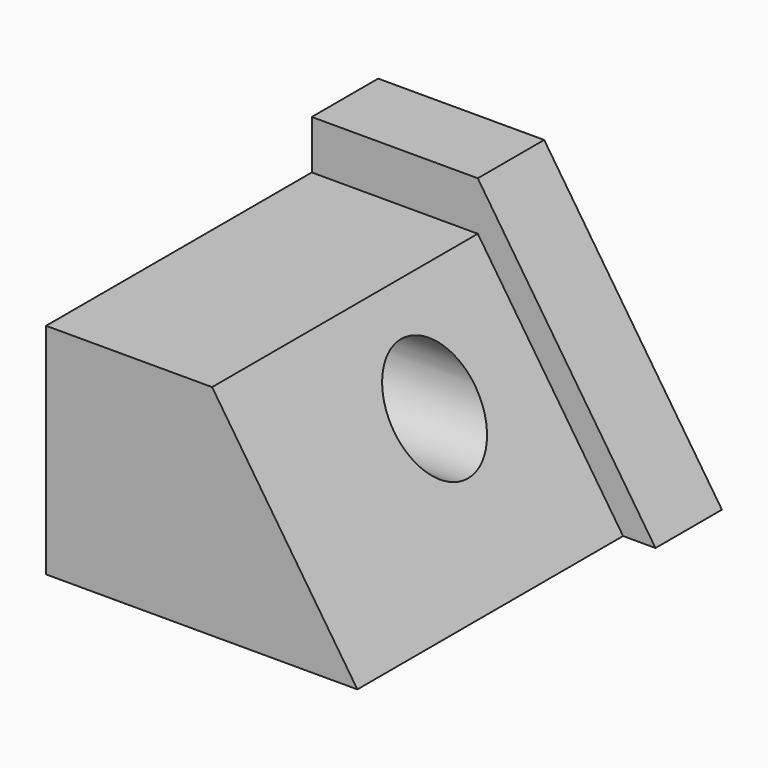
from build123d import *

# Parameters (mm, degrees)
F1_DEPTH = 63.5
F2_R     = 7.718493
F3_DEPTH = 52.580988
F5_DEPTH = 50.8


with BuildPart() as f1:
    # F0 (on Front) → F1 (new body)
    with BuildSketch(Plane.XZ):
        Polygon((-52.579988, 0), (0, 0), (-27.184211, 40.955156), (-52.579988, 40.955156), align=None)
    extrude(amount=F1_DEPTH)

    # F2 (on Right) → F3 (cut, through all)
    with BuildSketch(Plane.YZ):
        with Locations((-31.75, 20.477578)):
            Circle(F2_R)
    extrude(amount=-F3_DEPTH, mode=Mode.SUBTRACT)

    # F4 (on face) → F5 (cut)
    with BuildSketch(Plane.XZ.offset(63.5)):
        Polygon((-52.579988, 40.955156), (-52.579988, 33.481799), (-27.184211, 33.481799), (-4.960482, 0), (0, 0), (-27.184211, 40.955156), align=None)
    extrude(amount=-F5_DEPTH, mode=Mode.SUBTRACT)


solid = f1.part
